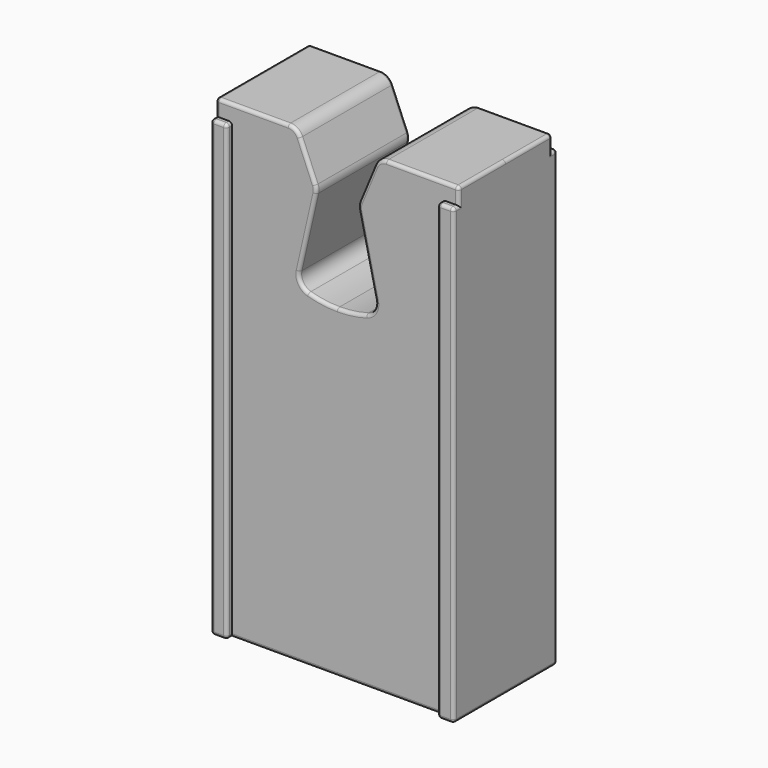
from build123d import *

# Parameters (mm, degrees)
PAD_DEPTH       = 4
SKETCH001_R     = 2.5
POCKET_DEPTH    = 19
POCKET001_DEPTH = 15
POCKET002_DEPTH = 0.4
FILLET_R        = 0.8
FILLET001_R     = 0.2


with BuildPart() as part:
    # Sketch → Pad (new body)
    with BuildSketch(Plane.XZ):
        Polygon((-7.5, 29), (-7.5, 0), (0, 0), (7.5, 0), (7.5, 29), (0, 29), align=None)
    extrude(amount=PAD_DEPTH)

    # Sketch001 (on Face5 of Pad) → Pocket (cut)
    with BuildSketch(Plane(origin=(0, 0, 0), x_dir=(1, 0, 0), z_dir=(0, 0, -1))):
        Circle(SKETCH001_R)
    extrude(amount=-POCKET_DEPTH, mode=Mode.SUBTRACT)

    # Sketch002 (on Face5 of Pocket) → Pocket001 (cut)
    with BuildSketch(Plane.XZ.offset(4)):
        with BuildLine():
            Line((-2.5, 20.5), (-1.25, 26))
            Line((-1.25, 26), (-2.5, 29))
            Line((-2.5, 29), (2.5, 29))
            Line((2.5, 29), (1.25, 26))
            Line((2.5, 20.5), (1.25, 26))
            ThreePointArc((0, 20), (1.274755, 20.126226), (2.5, 20.5))
            ThreePointArc((-2.5, 20.5), (-1.274755, 20.126226), (0, 20))
        make_face()
    extrude(amount=-POCKET001_DEPTH, mode=Mode.SUBTRACT)

    # Sketch005 (on Face5 of Pocket001) → Pocket002 (cut)
    with BuildSketch(Plane.XZ.offset(4)):
        Polygon((-6.5, 28), (-6.5, 0), (0, 0), (6.5, 0), (6.5, 28), (7.5, 28), (7.5, 29), (6.5, 29), (-6.5, 29), (-7.5, 29), (-7.5, 28), align=None)
    extrude(amount=-POCKET002_DEPTH, mode=Mode.SUBTRACT)

    # Fillet
    fillet_edges = [part.edges().sort_by_distance(p)[0] for p in [
        (-2.5, -1.8, 20.5),
        (2.5, -1.8, 20.5),
        (1.25, -1.8, 26),
        (2.5, -1.8, 29),
        (-1.25, -1.8, 26),
        (-2.5, -1.8, 29),
    ]]
    fillet(fillet_edges, radius=FILLET_R)

    # Fillet001
    fillet001_edges = [part.edges().sort_by_distance(p)[0] for p in [
        (0, -3.6, 0),
        (0, -2.5, 0),
        (-7.5, -2, 0),
        (-7, -4, 0),
        (7.5, -2, 0),
        (7, -4, 0),
        (6.5, -3.8, 0),
        (-6.5, -3.8, 0),
        (-6.5, -4, 14),
        (-7.5, -4, 14),
        (6.5, -4, 14),
        (7.5, -4, 14),
        (-7.5, -3.8, 28),
        (-7, -4, 28),
        (-6.5, -3.8, 28),
        (-5.266667, -3.6, 29),
        (-7.5, -3.6, 28.5),
        (0, -3.6, 20),
        (2.2501, -3.6, 20.61036),
        (1.824284, -3.6, 23.473152),
        (-2.2501, -3.6, 20.61036),
        (-1.824284, -3.6, 23.473152),
        (-1.82157, -3.6, 27.371768),
        (-2.589573, -3.6, 28.86564),
        (-1.289663, -3.6, 25.996594),
        (1.289663, -3.6, 25.996594),
        (1.82157, -3.6, 27.371768),
        (2.589573, -3.6, 28.86564),
        (5.266667, -3.6, 29),
        (7.5, -3.8, 28),
        (7.5, -3.6, 28.5),
        (7, -4, 28),
        (6.5, -3.8, 28),
        (-7.5, -1.8, 29),
        (7.5, -1.8, 29),
    ]]
    fillet(fillet001_edges, radius=FILLET001_R)

    # Mirrored: part across XZ


with BuildPart() as part_1:
    add(part.part)
    add(part.part.mirror(Plane.XZ))


solid = part_1.part
